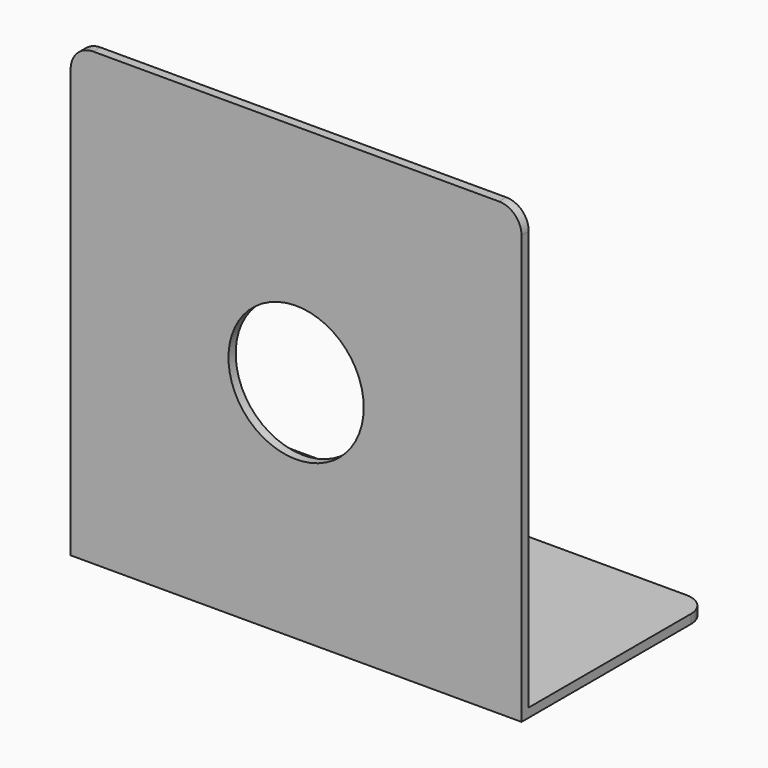
from build123d import *

# Parameters (mm, degrees)
F0_W     = 100
F0_H     = 100
F1_DEPTH = 2
F2_R     = 15
F3_DEPTH = 25
F4_W     = 100
F4_H     = 50
F5_DEPTH = 2
F6_R     = 5


with BuildPart() as f1:
    # F0 (on Front) → F1 (new body)
    with BuildSketch(Plane.XZ):
        Rectangle(F0_W, F0_H)
    extrude(amount=F1_DEPTH)

    # F2 (on face) → F3 (cut)
    with BuildSketch(Plane.XZ.offset(2)):
        Circle(F2_R)
    extrude(amount=-F3_DEPTH, mode=Mode.SUBTRACT)

    # F4 (on face) → F5 (join)
    with BuildSketch(Plane(origin=(0, 0, -50), x_dir=(1, 0, 0), z_dir=(0, 0, -1))):
        with Locations((0, -25)):
            Rectangle(F4_W, F4_H)
    extrude(amount=-F5_DEPTH)

    # F6
    f6_edges = [f1.edges().sort_by_distance(p)[0] for p in [
        (50, -1, 50),
        (50, 50, -49),
        (-50, 50, -49),
        (-50, -1, 50),
    ]]
    fillet(f6_edges, radius=F6_R)


solid = f1.part
